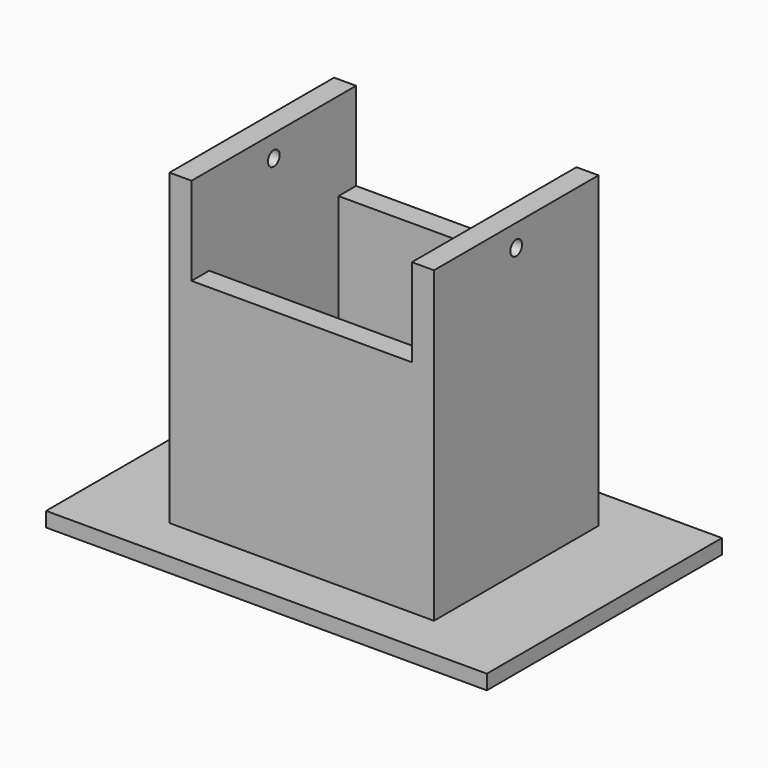
from build123d import *

# Parameters (mm, degrees)
F0_W     = 30
F0_H     = 20
F1_DEPTH = 1
F2_W     = 18
F2_H     = 14
F2_W_2   = 15
F2_H_2   = 11
F3_DEPTH = 15
F4_W     = 1.5
F4_H     = 14
F5_DEPTH = 6
F6_R     = 0.5
F7_DEPTH = 24.001


with BuildPart() as f1:
    # F0 (on Top) → F1 (new body)
    with BuildSketch(Plane.XY):
        with Locations((15, 10)):
            Rectangle(F0_W, F0_H)
    extrude(amount=F1_DEPTH)

    # F2 (on face) → F3 (join)
    with BuildSketch(Plane.XY.offset(1)):
        with Locations((15, 10)):
            Rectangle(F2_W, F2_H)
        with Locations((15, 10)):
            Rectangle(F2_W_2, F2_H_2, mode=Mode.SUBTRACT)
    extrude(amount=F3_DEPTH)

    # F4 (on face) → F5 (join)
    with BuildSketch(Plane.XY.offset(16)):
        with Locations((6.75, 10)):
            Rectangle(F4_W, F4_H)
        with Locations((23.25, 10)):
            Rectangle(F4_W, F4_H)
    extrude(amount=F5_DEPTH)

    # F6 (on face) → F7 (cut, through all)
    with BuildSketch(Plane(origin=(6, 0, 0), x_dir=(0, -1, 0), z_dir=(-1, 0, 0))):
        with Locations((-10, 20.5)):
            Circle(F6_R)
    extrude(amount=-F7_DEPTH, mode=Mode.SUBTRACT)


solid = f1.part
